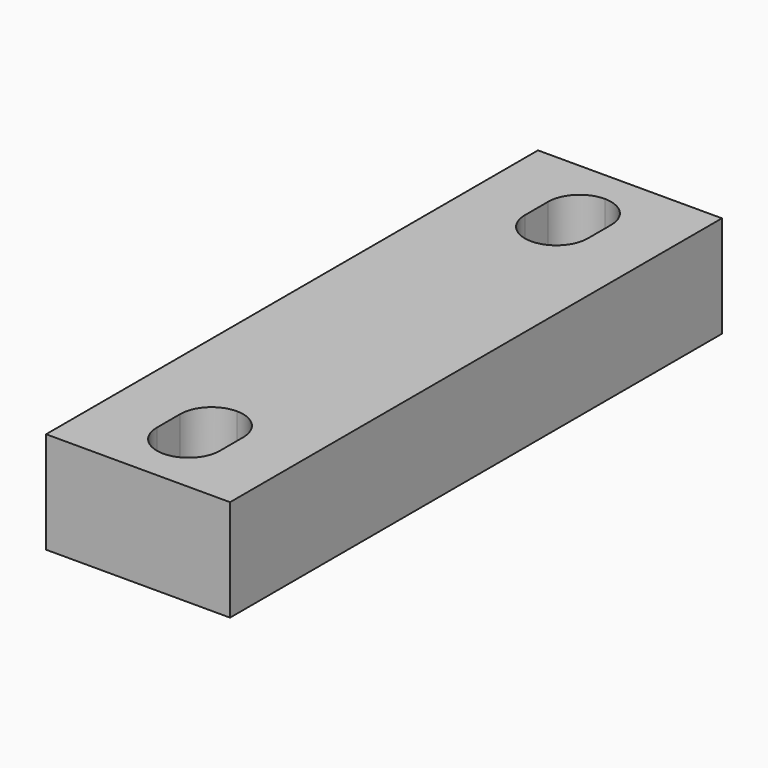
from build123d import *

# Parameters (mm, degrees)
PAD006_DEPTH               = 21
PAD006_MIRRORED002_2_DEPTH = 21


with BuildPart() as part:
    # Sketch006 → Pad006 (new body)
    with BuildSketch(Plane.XY):
        with BuildLine():
            Line((0, 0), (19, 0))
            Line((19, 0), (19, 63.5))
            Line((19, 63.5), (0, 63.5))
            Line((0, 63.5), (0, 57))
            ThreePointArc((6.5, 50.5), (4.596194, 55.096194), (0, 57))
            Line((6.5, 44.5), (6.5, 50.5))
            ThreePointArc((-0.001235, 38), (4.595757, 39.903369), (6.5, 44.5))
            Line((-0.001235, 38), (0, 0))
        make_face()
    pad006 = extrude(amount=PAD006_DEPTH)

    # Sketch006 Mirrored002 2 → Pad006 Mirrored002 2 (add)
    with BuildSketch(Plane(origin=(0, 0, 0), x_dir=(-1, 0, 0), z_dir=(0, 0, -1))):
        with BuildLine():
            Line((0, 0), (19, 0))
            Line((19, 0), (19, 63.5))
            Line((19, 63.5), (0, 63.5))
            Line((0, 63.5), (0, 57))
            ThreePointArc((6.5, 50.5), (4.596194, 55.096194), (0, 57))
            Line((6.5, 44.5), (6.5, 50.5))
            ThreePointArc((-0.001235, 38), (4.595757, 39.903369), (6.5, 44.5))
            Line((-0.001235, 38), (0, 0))
        make_face()
    pad006_mirrored002_2 = extrude(amount=-PAD006_MIRRORED002_2_DEPTH)

    # Mirrored003: Pad006, Pad006 Mirrored002 2 across Sketch006 H_Axis
    add(pad006.mirror(Plane.ZX))
    add(pad006_mirrored002_2.mirror(Plane.ZX))


solid = part.part
